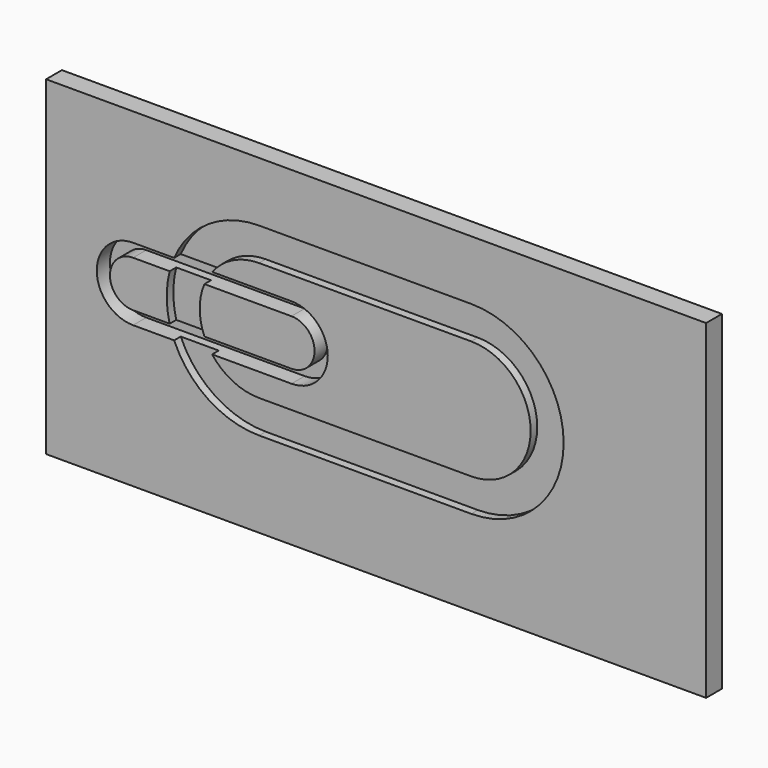
from build123d import *

# Parameters (mm, degrees)
F0_W     = 2000
F0_H     = 1000
F1_DEPTH = 60
F3_DEPTH = 50
F5_DEPTH = 25


with BuildPart() as f1:
    # F0 (on Front) → F1 (new body)
    with BuildSketch(Plane.XZ):
        with Locations((-239.9550452828, 155.4724135878)):
            Rectangle(F0_W, F0_H)
    extrude(amount=F1_DEPTH)

    # F2 (on face) → F3 (cut)
    with BuildSketch(Plane.XZ.offset(60)):
        with BuildLine():
            Line((-496.3808069078, 305.0812527983), (-976.3808069078, 305.0812527983))
            ThreePointArc((-976.3808069078, 305.0812527983), (-1086.3808069078, 195.0812527983), (-976.3808069078, 85.0812527983))
            Line((-976.3808069078, 85.0812527983), (-496.3808069078, 85.0812527983))
            ThreePointArc((-496.3808069078, 85.0812527983), (-386.3808069078, 195.0812527983), (-496.3808069078, 305.0812527983))
        make_face()
        with BuildLine():
            ThreePointArc((-976.3808069078, 125.0812527983), (-1046.3808069078, 195.0812527983), (-976.3808069078, 265.0812527983))
            Line((-976.3808069078, 265.0812527983), (-496.3808069078, 265.0812527983))
            ThreePointArc((-496.3808069078, 265.0812527983), (-426.3808069078, 195.0812527983), (-496.3808069078, 125.0812527983))
            Line((-496.3808069078, 125.0812527983), (-976.3808069078, 125.0812527983))
        make_face(mode=Mode.SUBTRACT)
    extrude(amount=-F3_DEPTH, mode=Mode.SUBTRACT)

    # F4 (on face) → F5 (cut)
    with BuildSketch(Plane.XZ.offset(60)):
        with BuildLine():
            ThreePointArc((-736.8312674929, 305.0812527983), (-673.7257383371, 356.6361970123), (-594.3531990051, 375.0812527983))
            Line((-594.3531990051, 375.0812527983), (48.4061799943, 375.0812527983))
            ThreePointArc((48.4061799943, 375.0812527983), (228.4061799943, 195.0812527983), (48.4061799943, 15.0812527983))
            Line((48.4061799943, 15.0812527983), (-594.3531990051, 15.0812527983))
            ThreePointArc((-594.3531990051, 15.0812527983), (-673.7257383371, 33.5263085842), (-736.8312674929, 85.0812527983))
            Line((-736.8312674929, 85.0812527983), (-851.8410627968, 85.0812527983))
            ThreePointArc((-851.8410627968, 85.0812527983), (-748.6256852105, -38.5851761127), (-594.3531990051, -84.9187472017))
            Line((-594.3531990051, -84.9187472017), (48.4061799943, -84.9187472017))
            ThreePointArc((48.4061799943, -84.9187472017), (328.4061799943, 195.0812527983), (48.4061799943, 475.0812527983))
            Line((48.4061799943, 475.0812527983), (-594.3531990051, 475.0812527983))
            ThreePointArc((-594.3531990051, 475.0812527983), (-748.6256852105, 428.7476817092), (-851.8410627968, 305.0812527983))
            Line((-851.8410627968, 305.0812527983), (-736.8312674929, 305.0812527983))
        make_face()
        with BuildLine():
            ThreePointArc((-736.8312674929, 85.0812527983), (-774.3531990051, 195.0812527983), (-736.8312674929, 305.0812527983))
            Line((-736.8312674929, 305.0812527983), (-851.8410627968, 305.0812527983))
            ThreePointArc((-851.8410627968, 305.0812527983), (-874.3531990051, 195.0812527983), (-851.8410627968, 85.0812527983))
            Line((-851.8410627968, 85.0812527983), (-736.8312674929, 85.0812527983))
        make_face()
    extrude(amount=-F5_DEPTH, mode=Mode.SUBTRACT)


solid = f1.part
